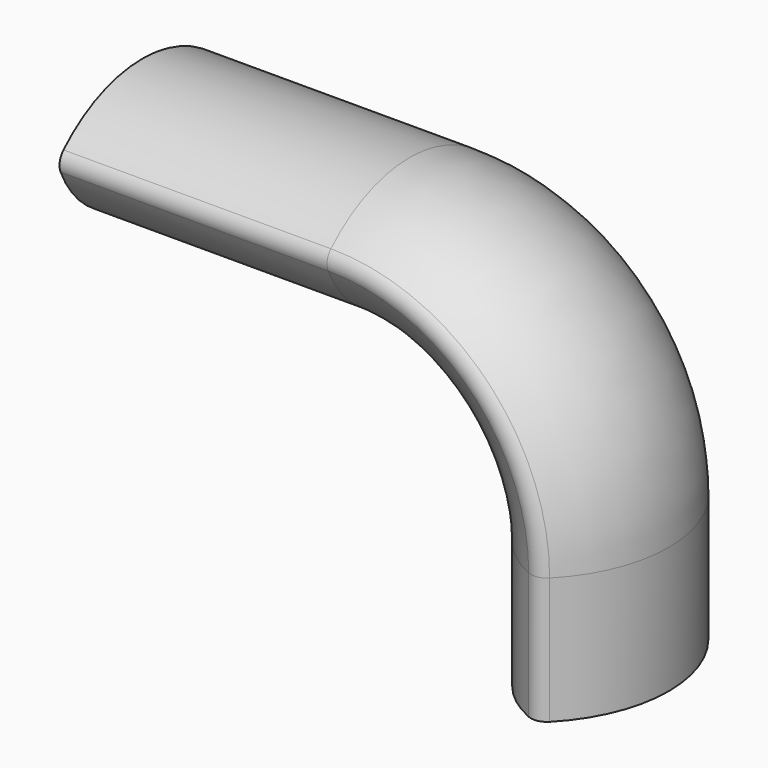
from build123d import *


with BuildPart() as f2:
    # F2: sweep along a path in F0
    with BuildLine(Plane.XZ) as f2_path:
        Line((0, 0), (0, 51.4572679996))
        ThreePointArc((0, 51.4572679996), (-29.1573684376, 121.8493823248), (-99.5494827628, 151.0067507625))
        Line((-99.5494827628, 151.0067507625), (-208.2385346019, 151.0067507625))
    # F1 (on Top) → F2 (sweep)
    with BuildSketch(Plane.XY):
        with BuildLine():
            ThreePointArc((-17.9969767891, -41.5336991378), (-14.094527486, -41.9556359374), (-10.6398630821, -40.0921888406))
            ThreePointArc((-10.6398630821, -40.0921888406), (5.7210400439, 0.2988613285), (-11.0602959901, 40.517051812))
            ThreePointArc((-11.0602959901, 40.517051812), (-14.0530889357, 42.1143611499), (-17.428490612, 41.7754359954))
            ThreePointArc((-17.428490612, 41.7754359954), (-45.2641572804, 0.3088742632), (-17.9969767891, -41.5336991378))
        make_face()
    sweep(path=f2_path.line)


solid = f2.part
